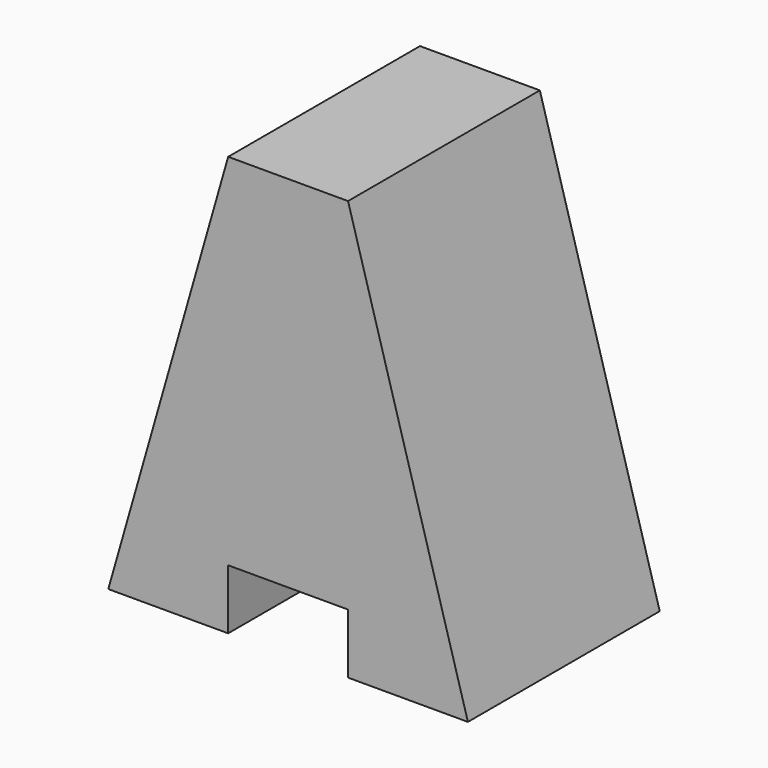
from build123d import *

# Parameters (mm, degrees)
F0_W     = 38.1
F0_H     = 44.45
F1_DEPTH = 25.4
F3_DEPTH = 25.401
F5_DEPTH = 25.401
F6_W     = 12.7
F6_H     = 6.35
F7_DEPTH = 25.401


with BuildPart() as f1:
    # F0 (on Front) → F1 (new body)
    with BuildSketch(Plane.XZ):
        with Locations((-19.05, 22.225)):
            Rectangle(F0_W, F0_H)
    extrude(amount=F1_DEPTH)

    # F2 (on face) → F3 (cut, through all)
    with BuildSketch(Plane.XZ.offset(25.4)):
        Polygon((-38.1, 0), (-25.4, 44.45), (-38.1, 44.45), align=None)
    extrude(amount=-F3_DEPTH, mode=Mode.SUBTRACT)

    # F4 (on face) → F5 (cut, through all)
    with BuildSketch(Plane.XZ.offset(25.4)):
        Polygon((0, 44.45), (-12.7, 44.45), (0, 0), align=None)
    extrude(amount=-F5_DEPTH, mode=Mode.SUBTRACT)

    # F6 (on face) → F7 (cut, through all)
    with BuildSketch(Plane.XZ.offset(25.4)):
        with Locations((-19.05, 3.175)):
            Rectangle(F6_W, F6_H)
    extrude(amount=-F7_DEPTH, mode=Mode.SUBTRACT)


solid = f1.part
